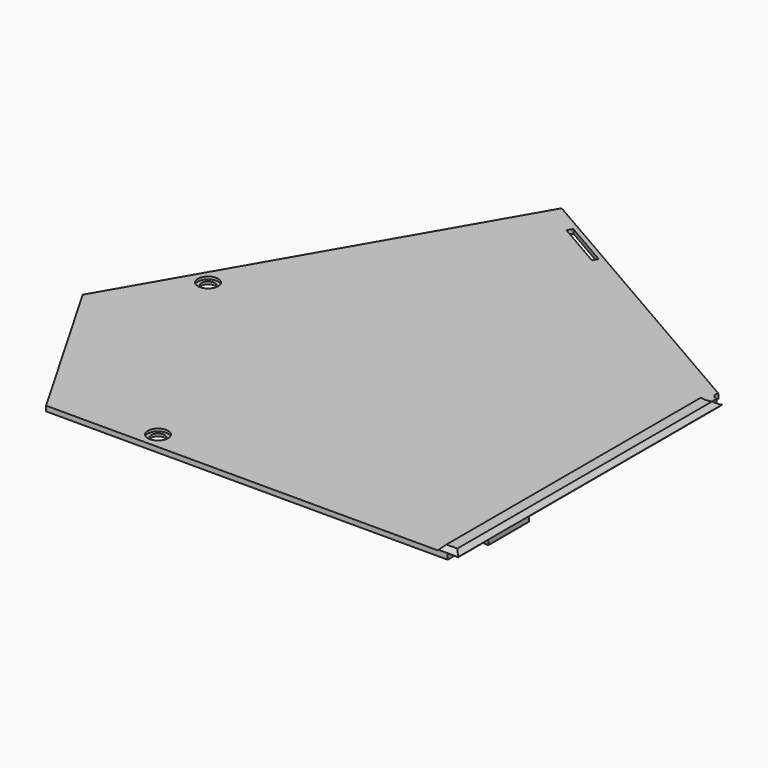
from build123d import *

# Parameters (mm, degrees)
SKETCH002_R             = 2.6
PAD001_DEPTH            = 2
PAD002_DEPTH            = 2
POCKET003_DEPTH         = 2.201
PAD003_DEPTH            = 2.2
POCKET004_DEPTH         = 4.001
SKETCH006_R             = 17.1
SKETCH006_R_2           = 14.9
POCKET002_DEPTH         = 1
CHAMFER002_SIZE         = 0.4
CHAMFER_SIZE            = 1.99
SKETCH004_R             = 2.2
POCKET_DEPTH            = 4.001
SKETCH005_R             = 6.2
POCKET001_DEPTH         = 2.001
SKETCH010_R             = 4
POCKET005_DEPTH         = 1
CHAMFER001_SIZE         = 1.7
BODY002_PLACEMENT_ANGLE = 120


with BuildPart() as part:
    # Sketch002 → Pad001 (new body)
    with BuildSketch(Plane.XY):
        Polygon((-116.824546, 67.621888), (-37.5, 205.016032), (37.5, 205.016032), (116.824546, 67.621888), (0, 0.173205), align=None)
        with Locations((-51.370835, 167.991041)):
            Circle(SKETCH002_R, mode=Mode.SUBTRACT)
        with Locations((51.370835, 167.991041)):
            Circle(SKETCH002_R, mode=Mode.SUBTRACT)
    extrude(amount=PAD001_DEPTH)

    # Sketch003 → Pad002 (join)
    with BuildSketch(Plane.XY.offset(2)):
        Polygon((-118.899546, 64.027883), (-114.899546, 70.956086), (-0.173205, 4.718802), (-0.173205, 0.1), (-4.173205, -2.209401), align=None)
    extrude(amount=PAD002_DEPTH)

    # Sketch007 → Pocket003 (cut, through all)
    with BuildSketch(Plane.XY.offset(2.2)):
        Polygon((-116.824546, 67.621888), (0, 0.173205), (-4.173205, -2.209401), (-118.899546, 64.027883), align=None)
    extrude(amount=-POCKET003_DEPTH, mode=Mode.SUBTRACT)

    # Sketch008 → Pad003 (join)
    with BuildSketch(Plane.XY):
        Polygon((-104.909165, 58.259933), (-87.588657, 48.259933), (-88.588657, 46.527883), (-105.909165, 56.527883), align=None)
    extrude(amount=PAD003_DEPTH)

    # Sketch009 → Pocket004 (cut, through all)
    with BuildSketch(Plane.XY):
        Polygon((83.830836, 53.168669), (84.960836, 51.211452), (103.666985, 62.011452), (102.536985, 63.968669), align=None)
    extrude(amount=POCKET004_DEPTH, mode=Mode.SUBTRACT)

    # Sketch006 → Pocket002 (cut)
    with BuildSketch(Plane.XY):
        Circle(SKETCH006_R)
        Circle(SKETCH006_R_2, mode=Mode.SUBTRACT)
    extrude(amount=POCKET002_DEPTH, mode=Mode.SUBTRACT)

    # Chamfer002
    chamfer002_edges = [part.edges().sort_by_distance(p)[0] for p in [
        (-96.248911, 53.259933, 0),
        (-88.088657, 47.393908, 0),
        (-97.248911, 51.527883, 0),
        (-105.409165, 57.393908, 0),
        (94.313911, 56.611452, 0),
        (103.101985, 62.99006, 0),
        (93.183911, 58.568669, 0),
        (84.395836, 52.19006, 0),
        (0, 14.9, 0),
        (0, 17.1, 0),
    ]]
    chamfer(chamfer002_edges, length=CHAMFER002_SIZE)

    # Chamfer
    chamfer_edges = [part.edges().sort_by_distance(p)[0] for p in [
        (-57.536375, 37.837444, 4),
    ]]
    chamfer(chamfer_edges, length=CHAMFER_SIZE)

    # Sketch004 → Pocket (cut, through all)
    with BuildSketch(Plane.XY):
        Circle(SKETCH004_R)
    extrude(amount=POCKET_DEPTH, mode=Mode.SUBTRACT)

    # Sketch005 → Pocket001 (cut, through all)
    with BuildSketch(Plane.XY.offset(2)):
        Circle(SKETCH005_R)
    extrude(amount=POCKET001_DEPTH, mode=Mode.SUBTRACT)

    # Sketch010 → Pocket005 (cut)
    with BuildSketch(Plane.XY.offset(2)):
        with Locations((-51.370835, 167.991041)):
            Circle(SKETCH010_R)
        with Locations((51.370835, 167.991041)):
            Circle(SKETCH010_R)
    extrude(amount=-POCKET005_DEPTH, mode=Mode.SUBTRACT)

    # Chamfer001
    chamfer001_edges = [part.edges().sort_by_distance(p)[0] for p in [
        (-5.849077, 2.056283, 4),
        (-62.500992, 31.466162, 4),
        (-117.397046, 66.630289, 4),
    ]]
    chamfer(chamfer001_edges, length=CHAMFER001_SIZE)


with BuildPart() as part_1:
    # Body002 placement: moved
    add(part.part.rotate(Axis((0, 0, 0), (0, 0, 1)), BODY002_PLACEMENT_ANGLE))


solid = part_1.part
